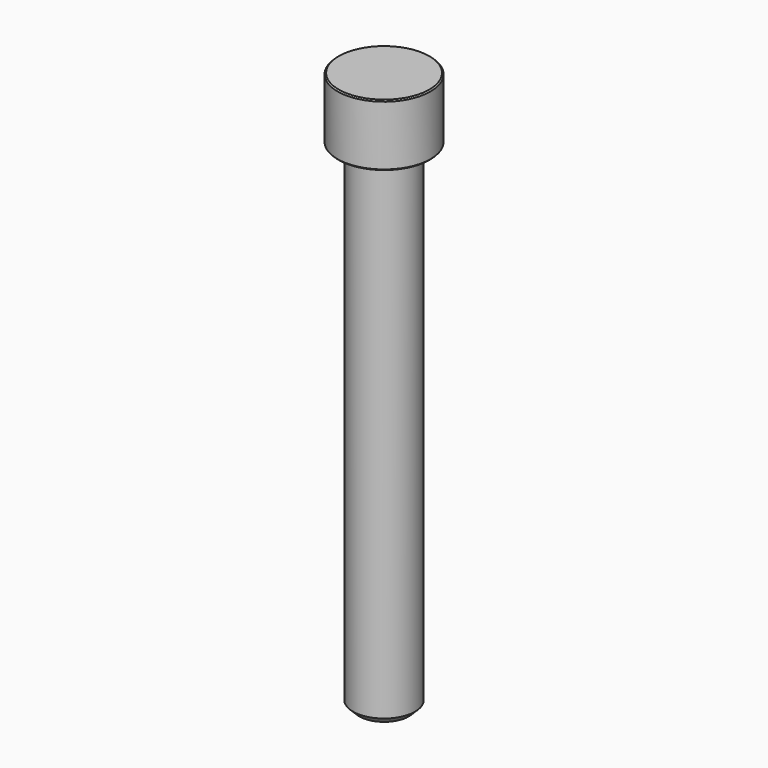
from build123d import *

# Parameters (mm, degrees)
F0_R     = 12.7
F1_DEPTH = 101.6
F2_SIZE  = 2.54
F3_R     = 19.05
F3_R_2   = 12.7
F4_DEPTH = 25.4
F5_SIZE  = 0.508


with BuildPart() as f1:
    # F0 (on Top) → F1 (new body, symmetric)
    with BuildSketch(Plane.XY):
        Circle(F0_R)
    extrude(amount=F1_DEPTH, both=True)

    # F2
    f2_edges = [f1.edges().sort_by_distance(p)[0] for p in [
        (-12.7, 0, -101.6),
    ]]
    chamfer(f2_edges, length=F2_SIZE)

    # F3 (on face) → F4 (join)
    with BuildSketch(Plane.XY.offset(101.6)):
        Circle(F3_R)
        Circle(F3_R_2, mode=Mode.SUBTRACT)
        Circle(F3_R_2)
    extrude(amount=F4_DEPTH)

    # F5
    f5_edges = [f1.edges().sort_by_distance(p)[0] for p in [
        (-19.05, 0, 127),
        (-19.05, 0, 101.6),
    ]]
    chamfer(f5_edges, length=F5_SIZE)


solid = f1.part
